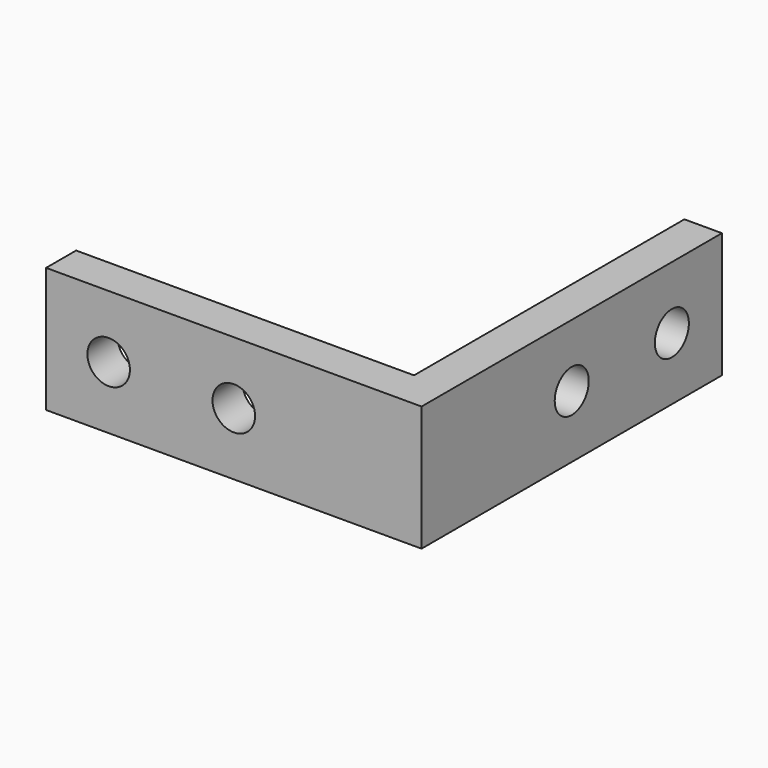
from build123d import *

# Parameters (mm, degrees)
F1_DEPTH = 10
F3_R     = 1.7
F4_DEPTH = 25
F2_R     = 1.7
F5_DEPTH = 25


with BuildPart() as f1:
    # F0 (on Top) → F1 (new body)
    with BuildSketch(Plane.XY):
        Polygon((0, 3), (0, 0), (30, 0), (30, 30), (27, 30), (27, 3), align=None)
    extrude(amount=F1_DEPTH)

    # F3 (on face) → F4 (cut)
    with BuildSketch(Plane(origin=(27, 0, 0), x_dir=(0, -1, 0), z_dir=(-1, 0, 0))):
        with Locations((-25, 5)):
            Circle(F3_R)
        with Locations((-15, 5)):
            Circle(F3_R)
    extrude(amount=-F4_DEPTH, mode=Mode.SUBTRACT)

    # F2 (on face) → F5 (cut)
    with BuildSketch(Plane(origin=(0, 3, 0), x_dir=(-1, 0, 0), z_dir=(0, 1, 0))):
        with Locations((-15, 5)):
            Circle(F2_R)
        with Locations((-5, 5)):
            Circle(F2_R)
    extrude(amount=-F5_DEPTH, mode=Mode.SUBTRACT)


solid = f1.part
